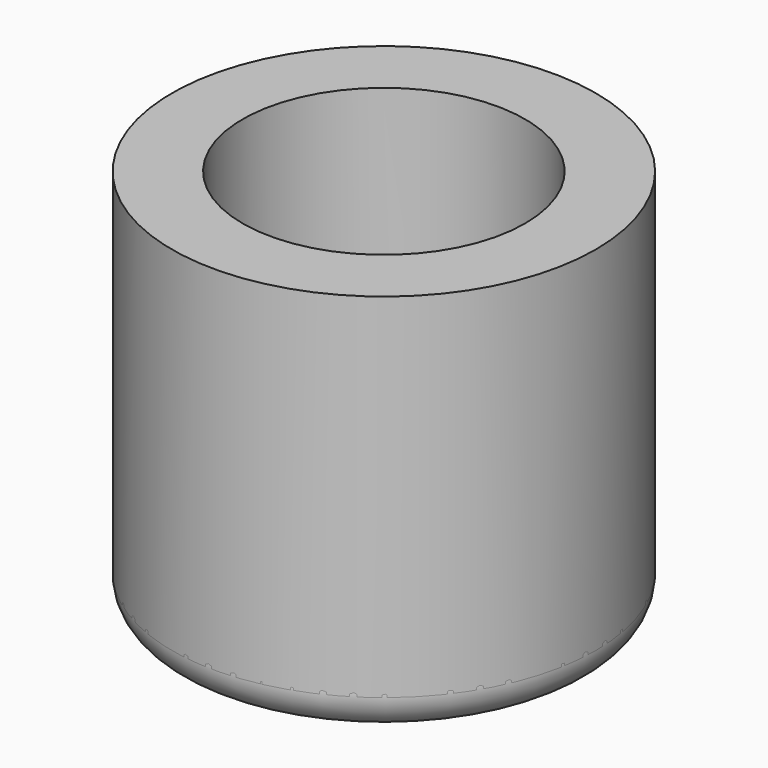
from build123d import *

# Parameters (mm, degrees)
F0_R   = 4
F2_R   = 24
F2_R_2 = 16


with BuildPart() as f1:
    # F0 (on Front) → F1 (revolve)
    with BuildSketch(Plane.XZ):
        with Locations((-20, 0)):
            Circle(F0_R)
    revolve(axis=Axis((0, 0, 20), (0, 0, 1)))


with BuildPart() as f3:
    # F3: sweep along a path in F0
    with BuildLine(Plane.XZ) as f3_path:
        Line((0, 0), (0, 40))
    # F2 (on Top) → F3 (sweep)
    with BuildSketch(Plane.XY):
        Circle(F2_R)
        Circle(F2_R_2, mode=Mode.SUBTRACT)
    sweep(path=f3_path.line)


solid = Compound([f1.part, f3.part])
